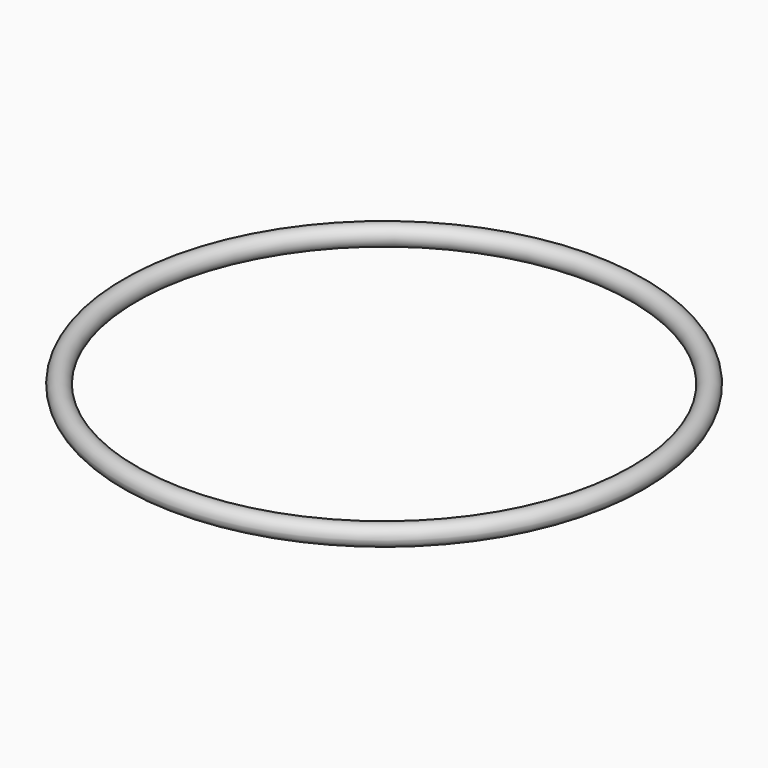
from build123d import *

# Parameters (mm, degrees)
F0_R = 1.5875


with BuildPart() as f2:
    # F2: sweep along a path in F1
    with BuildLine(Plane.XY) as f2_path:
        CenterArc((0.061468, -40.004953), 40.005, 0, 360)
    # F0 (on Right) → F2 (sweep)
    with BuildSketch(Plane.YZ):
        Circle(F0_R)
    sweep(path=f2_path.line)


solid = f2.part
